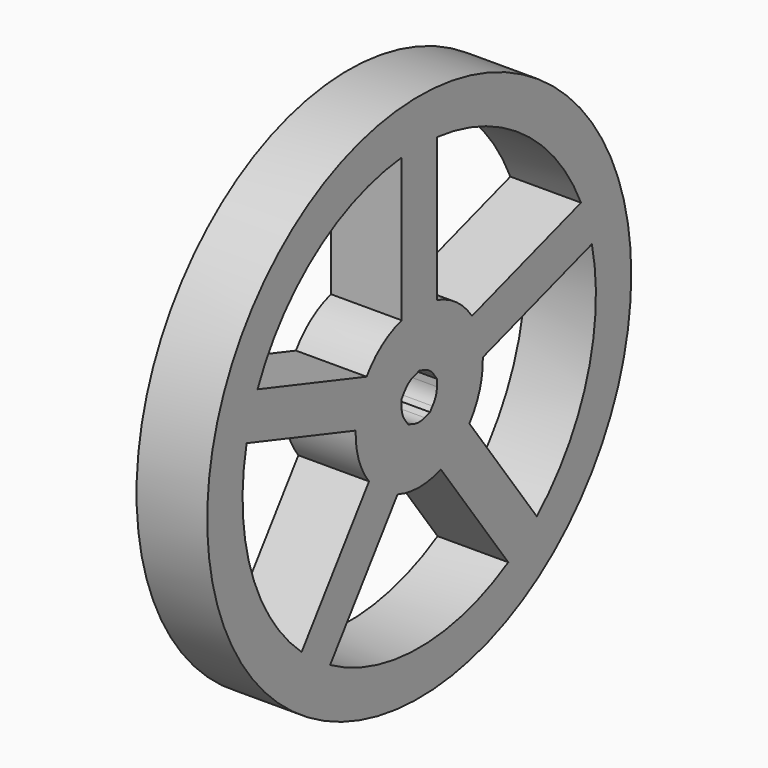
from build123d import *

# Parameters (mm, degrees)
F0_R     = 30
F1_DEPTH = 8


with BuildPart() as f1:
    # F0 (on Right) → F1 (new body)
    with BuildSketch(Plane.YZ):
        Circle(F0_R)
        with BuildLine():
            ThreePointArc((12.598431, -21.593507), (-0.006208, -24.999999), (-12.609153, -21.587247))
            Line((-12.609153, -21.587247), (-3.071425, -8.45969))
            ThreePointArc((-3.071425, -8.45969), (-0.006429, -8.999998), (3.059336, -8.464069))
            Line((3.059336, -8.464069), (12.598431, -21.593507))
        make_face(mode=Mode.SUBTRACT)
        with BuildLine():
            ThreePointArc((-16.643516, -18.654581), (-23.778331, -7.719521), (-24.427135, 5.321191))
            Line((-24.427135, 5.321191), (-8.994765, 0.30691))
            ThreePointArc((-8.994765, 0.30691), (-8.561493, -2.775038), (-7.104421, -5.525143))
            Line((-7.104421, -5.525143), (-16.643516, -18.654581))
        make_face(mode=Mode.SUBTRACT)
        with BuildLine():
            ThreePointArc((24.429775, 5.309059), (23.774494, -7.731329), (16.63425, -18.662844))
            Line((16.63425, -18.662844), (7.096521, -5.535286))
            ThreePointArc((7.096521, -5.535286), (8.55752, -2.787266), (8.995195, 0.29406))
            Line((8.995195, 0.29406), (24.429775, 5.309059))
        make_face(mode=Mode.SUBTRACT)
        with BuildLine():
            ThreePointArc((-22.88469, 10.064342), (-14.689609, 20.229073), (-2.487646, 24.875924))
            Line((-2.487646, 24.875924), (-2.487646, 8.649371))
            ThreePointArc((-2.487646, 8.649371), (-5.284865, 7.28493), (-7.45011, 5.049343))
            Line((-7.45011, 5.049343), (-22.88469, 10.064342))
        make_face(mode=Mode.SUBTRACT)
        with BuildLine():
            Line((2.5, 0.791282), (2.5, 0))
            ThreePointArc((2.5, 0), (2.336302, -0.889772), (1.866644, -1.663021))
            Line((1.866644, -1.663021), (1.525096, -2.133122))
            Line((1.525096, -2.133122), (0.772542, -2.377641))
            ThreePointArc((0.772542, -2.377641), (-0.124267, -2.49691), (-1.004802, -2.289186))
            Line((-1.004802, -2.289186), (-1.557439, -2.109623))
            Line((-1.557439, -2.109623), (-2.022542, -1.469463))
            ThreePointArc((-2.022542, -1.469463), (-2.413103, -0.653403), (-2.487646, 0.248226))
            Line((-2.487646, 0.248226), (-2.487646, 0.829303))
            Line((-2.487646, 0.829303), (-2.022542, 1.469463))
            ThreePointArc((-2.022542, 1.469463), (-1.367113, 2.093085), (-0.532648, 2.442598))
            Line((-0.532648, 2.442598), (0.019989, 2.622161))
            Line((0.019989, 2.622161), (0.772542, 2.377641))
            ThreePointArc((0.772542, 2.377641), (1.568181, 1.947), (2.158452, 1.261382))
            Line((2.158452, 1.261382), (2.5, 0.791282))
        make_face(mode=Mode.SUBTRACT)
        with BuildLine():
            Line((22.889685, 10.052976), (7.457316, 5.038695))
            ThreePointArc((7.457316, 5.038695), (5.295267, 7.277372), (2.5, 8.645808))
            Line((2.5, 8.645808), (2.5, 24.874686))
            ThreePointArc((2.5, 24.874686), (14.699653, 20.221775), (22.889685, 10.052976))
        make_face(mode=Mode.SUBTRACT)
    extrude(amount=F1_DEPTH)


solid = f1.part
